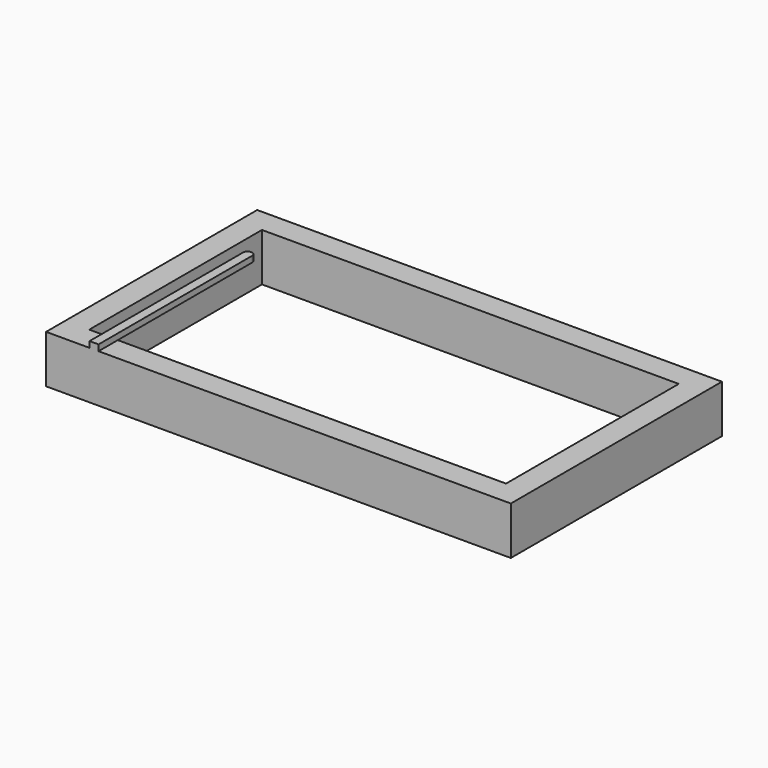
from build123d import *

# Parameters (mm, degrees)
F0_W     = 1968.5
F0_H     = 1117.6
F0_W_2   = 1765.3
F0_H_2   = 914.4
F1_DEPTH = 203.2
F3_DEPTH = 25.4


with BuildPart() as f1:
    # F0 (on Top) → F1 (new body)
    with BuildSketch(Plane.XY):
        with Locations((984.25, -558.8)):
            Rectangle(F0_W, F0_H)
        with Locations((984.25, -558.8)):
            Rectangle(F0_W_2, F0_H_2, mode=Mode.SUBTRACT)
    extrude(amount=F1_DEPTH)

    # F2 (on face) → F3 (join)
    with BuildSketch(Plane.XY.offset(203.2)):
        with BuildLine():
            ThreePointArc((222.25, -304.8), (203.2, -285.75), (184.15, -304.8))
            Line((184.15, -304.8), (184.15, -1117.6))
            Line((184.15, -1117.6), (222.25, -1117.6))
            Line((222.25, -1117.6), (222.25, -304.8))
        make_face()
    extrude(amount=F3_DEPTH)


solid = f1.part
